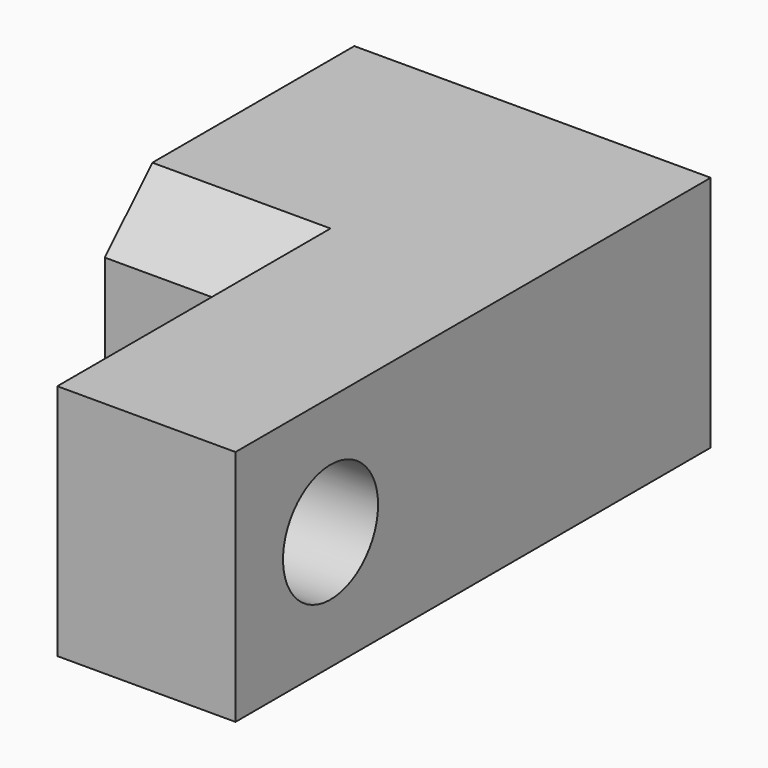
from build123d import *

# Parameters (mm, degrees)
F0_W     = 38.1
F0_H     = 63.5
F1_DEPTH = 25.4
F2_W     = 19.05
F2_H     = 26.9875
F3_DEPTH = 25.4
F4_R     = 6.35
F5_DEPTH = 25.4
F6_DEPTH = 3.175
F7_SIZE  = 6.35


with BuildPart() as f1:
    # F0 (on Top) → F1 (new body)
    with BuildSketch(Plane.XY):
        Rectangle(F0_W, F0_H)
    extrude(amount=F1_DEPTH)

    # F2 (on face) → F3 (cut)
    with BuildSketch(Plane.XY.offset(25.4)):
        with Locations((-9.525, -18.25625)):
            Rectangle(F2_W, F2_H)
    extrude(amount=-F3_DEPTH, mode=Mode.SUBTRACT)

    # F4 (on face) → F5 (cut)
    with BuildSketch(Plane.YZ.offset(19.05)):
        with Locations((-19.05, 12.7)):
            Circle(F4_R)
    extrude(amount=-F5_DEPTH, mode=Mode.SUBTRACT)

    # F6 (cut): a face of the model
    f6_faces = [f1.faces().sort_by_distance(p)[0] for p in [
        (-9.525, -4.7625, 12.7),
    ]]
    extrude(f6_faces, amount=-F6_DEPTH, mode=Mode.SUBTRACT)

    # F7
    f7_edges = [f1.edges().sort_by_distance(p)[0] for p in [
        (-9.525, -1.5875, 25.4),
        (-9.525, -1.5875, 0),
    ]]
    chamfer(f7_edges, length=F7_SIZE)


solid = f1.part
